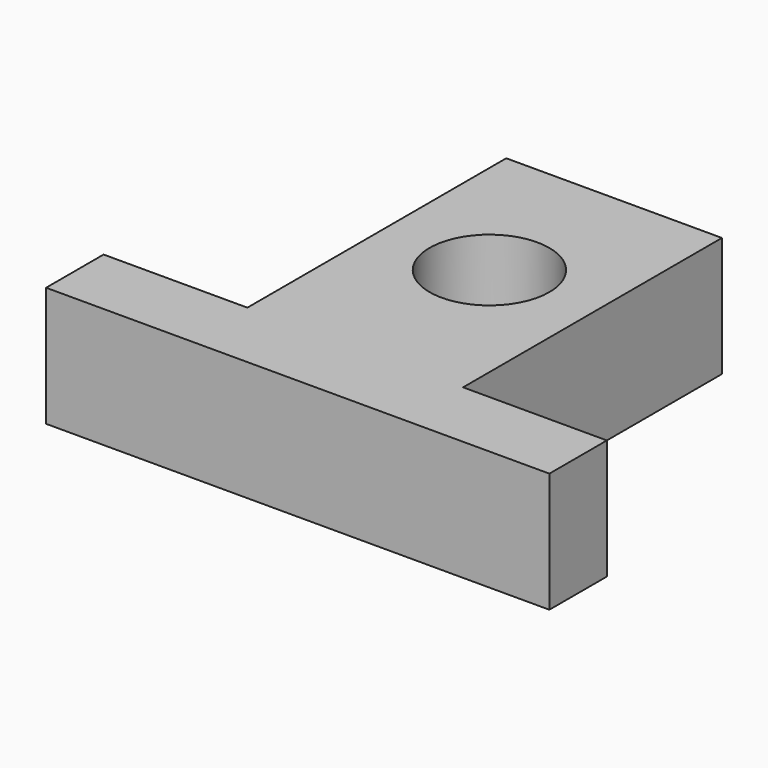
from build123d import *

# Parameters (mm, degrees)
SKETCH_R      = 5
EXTRUDE_DEPTH = 10


with BuildPart() as part:
    # Sketch → Extrude (new body)
    with BuildSketch(Plane.XY):
        Polygon((28.522638, 37.138413), (28.522638, 43.138413), (40.522638, 43.138413), (40.522638, 70.138413), (58.522638, 70.138413), (58.522638, 43.138413), (70.522638, 43.138413), (70.522638, 37.138413), align=None)
        with Locations((49.522638, 57.138413)):
            Circle(SKETCH_R, mode=Mode.SUBTRACT)
    extrude(amount=EXTRUDE_DEPTH)


with BuildPart() as part_1:
    # Extrude placement: moved
    add(part.part.moved(Location((59, 0, 0))))


solid = part_1.part
